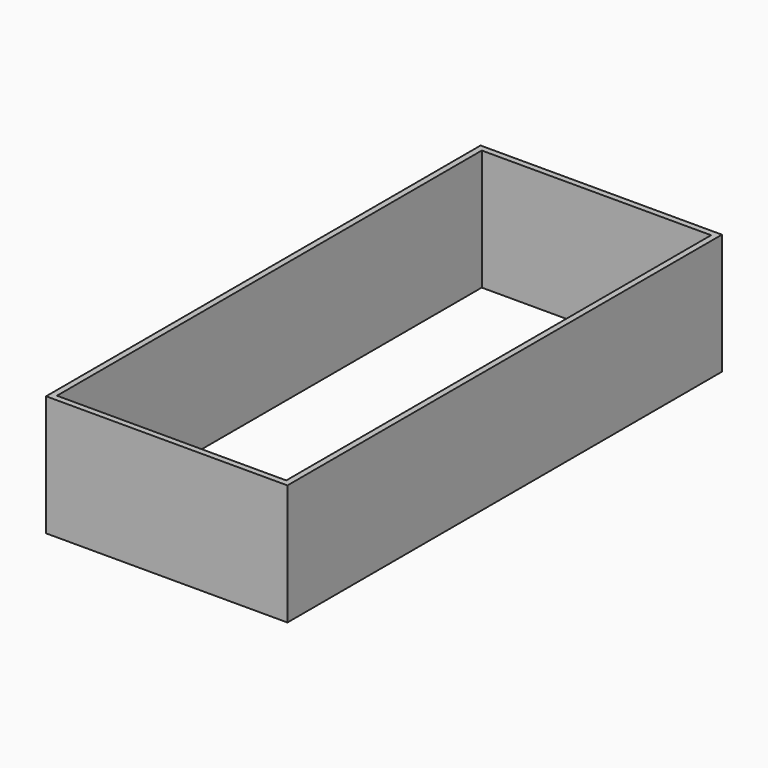
from build123d import *

# Parameters (mm, degrees)
F0_W     = 180
F0_H     = 40
F1_DEPTH = 40
F2_T     = -2


with BuildPart() as f1:
    # F0 (on Right) → F1 (new body, symmetric)
    with BuildSketch(Plane.YZ):
        with Locations((9.012016, -23.53282)):
            Rectangle(F0_W, F0_H)
    extrude(amount=F1_DEPTH, both=True)

    # F2
    f2_openings = [f1.faces().sort_by_distance(p)[0] for p in [
        (0, 9.012016, -3.53282),
        (0, 9.012016, -43.53282),
    ]]
    offset(amount=F2_T, openings=f2_openings)


solid = f1.part
